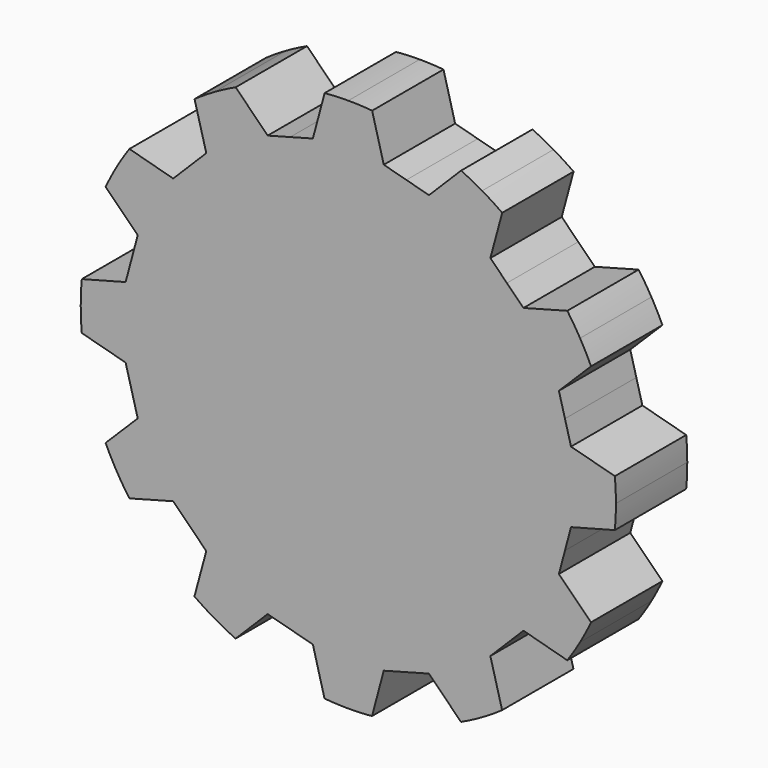
from build123d import *

# Parameters (mm, degrees)
F1_DEPTH = 1.27


with BuildPart() as f1:
    # F0 (on Front) → F1 (new body)
    with BuildSketch(Plane.XZ):
        with BuildLine():
            ThreePointArc((3.794874, -0.339167), (3.806217, -0.169752), (3.81, 0))
            Line((3.81, 0), (0, 0))
            Line((0, 0), (3.084668, 0.826534))
            Line((3.084668, 0.826534), (2.998397, 1.148501))
            Line((2.998397, 1.148501), (3.456041, 1.603709))
            ThreePointArc((3.456041, 1.603709), (3.381156, 1.756098), (3.299557, 1.905))
            ThreePointArc((3.299557, 1.905), (3.211897, 2.049345), (3.117927, 2.189664))
            Line((3.117927, 2.189664), (2.493829, 2.022438))
            Line((2.493829, 2.022438), (2.258134, 2.258134))
            Line((2.258134, 2.258134), (2.022438, 2.493829))
            Line((2.022438, 2.493829), (2.191164, 3.116873))
            ThreePointArc((2.191164, 3.116873), (2.050118, 3.211404), (1.905, 3.299557))
            ThreePointArc((1.905, 3.299557), (1.756912, 3.380734), (1.605372, 3.455269))
            Line((1.605372, 3.455269), (1.148501, 2.998397))
            Line((1.148501, 2.998397), (0.826534, 3.084668))
            Line((0.826534, 3.084668), (0.504568, 3.170939))
            Line((0.504568, 3.170939), (0.339167, 3.794874))
            ThreePointArc((0.339167, 3.794874), (0.169752, 3.806217), (0, 3.81))
            ThreePointArc((0, 3.81), (-0.168837, 3.806257), (-0.337341, 3.795036))
            Line((-0.337341, 3.795036), (-0.504568, 3.170939))
            Line((-0.504568, 3.170939), (-0.826534, 3.084668))
            Line((-0.826534, 3.084668), (-1.148501, 2.998397))
            Line((-1.148501, 2.998397), (-1.603709, 3.456041))
            ThreePointArc((-1.603709, 3.456041), (-1.756098, 3.381156), (-1.905, 3.299557))
            ThreePointArc((-1.905, 3.299557), (-2.049345, 3.211897), (-2.189664, 3.117927))
            Line((-2.189664, 3.117927), (-2.022438, 2.493829))
            Line((-2.022438, 2.493829), (-2.258134, 2.258134))
            Line((-2.258134, 2.258134), (-2.493829, 2.022438))
            Line((-2.493829, 2.022438), (-3.116873, 2.191164))
            ThreePointArc((-3.116873, 2.191164), (-3.211404, 2.050118), (-3.299557, 1.905))
            ThreePointArc((-3.299557, 1.905), (-3.380734, 1.756912), (-3.455269, 1.605372))
            Line((-3.455269, 1.605372), (-2.998397, 1.148501))
            Line((-2.998397, 1.148501), (-3.084668, 0.826534))
            Line((-3.084668, 0.826534), (-3.170939, 0.504568))
            Line((-3.170939, 0.504568), (-3.794874, 0.339167))
            ThreePointArc((-3.794874, 0.339167), (-3.806217, 0.169752), (-3.81, 0))
            ThreePointArc((-3.81, 0), (-3.806257, -0.168837), (-3.795036, -0.337341))
            Line((-3.795036, -0.337341), (-3.170939, -0.504568))
            Line((-3.170939, -0.504568), (-3.084668, -0.826534))
            Line((-3.084668, -0.826534), (-2.998397, -1.148501))
            Line((-2.998397, -1.148501), (-3.456041, -1.603709))
            ThreePointArc((-3.456041, -1.603709), (-3.381156, -1.756098), (-3.299557, -1.905))
            ThreePointArc((-3.299557, -1.905), (-3.211897, -2.049345), (-3.117927, -2.189664))
            Line((-3.117927, -2.189664), (-2.493829, -2.022438))
            Line((-2.493829, -2.022438), (-2.258134, -2.258134))
            Line((-2.258134, -2.258134), (-2.022438, -2.493829))
            Line((-2.022438, -2.493829), (-2.191164, -3.116873))
            ThreePointArc((-2.191164, -3.116873), (-2.050118, -3.211404), (-1.905, -3.299557))
            ThreePointArc((-1.905, -3.299557), (-1.756912, -3.380734), (-1.605372, -3.455269))
            Line((-1.605372, -3.455269), (-1.148501, -2.998397))
            Line((-1.148501, -2.998397), (-0.826534, -3.084668))
            Line((-0.826534, -3.084668), (-0.504568, -3.170939))
            Line((-0.504568, -3.170939), (-0.339167, -3.794874))
            ThreePointArc((-0.339167, -3.794874), (-0.169752, -3.806217), (0, -3.81))
            ThreePointArc((0, -3.81), (0.168837, -3.806257), (0.337341, -3.795036))
            Line((0.337341, -3.795036), (0.504568, -3.170939))
            Line((0.504568, -3.170939), (0.826534, -3.084668))
            Line((0.826534, -3.084668), (1.148501, -2.998397))
            Line((1.148501, -2.998397), (1.603709, -3.456041))
            ThreePointArc((1.603709, -3.456041), (1.756098, -3.381156), (1.905, -3.299557))
            ThreePointArc((1.905, -3.299557), (2.049345, -3.211897), (2.189664, -3.117927))
            Line((2.189664, -3.117927), (2.022438, -2.493829))
            Line((2.022438, -2.493829), (2.258134, -2.258134))
            Line((2.258134, -2.258134), (2.493829, -2.022438))
            Line((2.493829, -2.022438), (3.116873, -2.191164))
            ThreePointArc((3.116873, -2.191164), (3.211404, -2.050118), (3.299557, -1.905))
            ThreePointArc((3.299557, -1.905), (3.380734, -1.756912), (3.455269, -1.605372))
            Line((3.455269, -1.605372), (2.998397, -1.148501))
            Line((2.998397, -1.148501), (3.084668, -0.826534))
            Line((3.084668, -0.826534), (3.170939, -0.504568))
            Line((3.170939, -0.504568), (3.794874, -0.339167))
        make_face()
        with BuildLine():
            Line((0, 0), (3.795502, 0.332063))
            ThreePointArc((3.795502, 0.332063), (3.79527, 0.334702), (3.795036, 0.337341))
            Line((3.795036, 0.337341), (3.170939, 0.504568))
            Line((3.170939, 0.504568), (3.084668, 0.826534))
            Line((3.084668, 0.826534), (0, 0))
        make_face()
        with BuildLine():
            Line((0, 0), (3.81, 0))
            ThreePointArc((3.81, 0), (3.806374, 0.16619), (3.795502, 0.332063))
            Line((3.795502, 0.332063), (0, 0))
        make_face()
    extrude(amount=F1_DEPTH)


solid = f1.part
